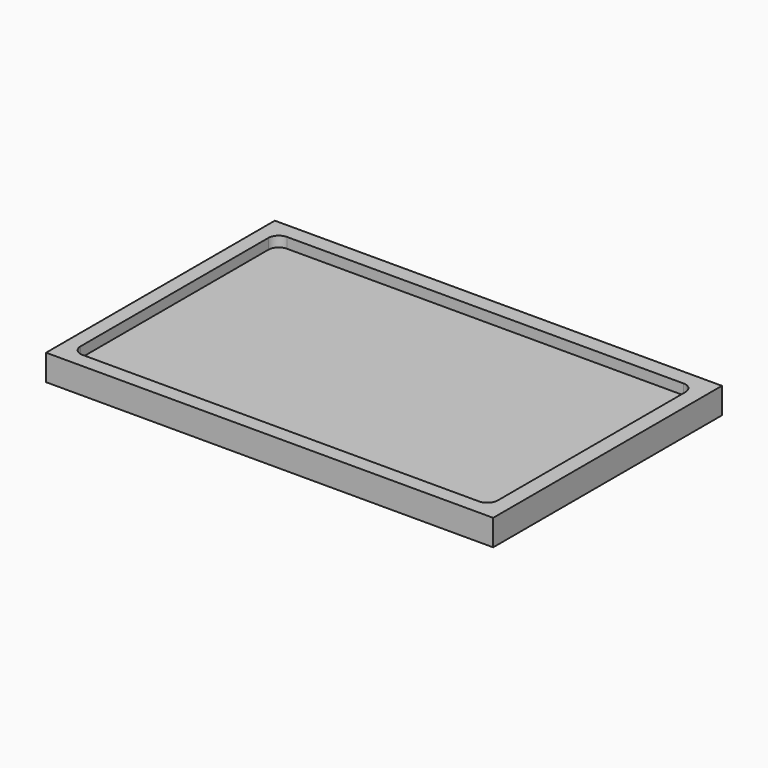
from build123d import *

# Parameters (mm, degrees)
F0_W     = 86
F0_H     = 55
F1_DEPTH = 5
F2_W     = 80.25
F2_H     = 49.15
F3_DEPTH = 2
F4_R     = 2


with BuildPart() as f1:
    # F0 (on Top) → F1 (new body)
    with BuildSketch(Plane.XY):
        Rectangle(F0_W, F0_H)
    extrude(amount=F1_DEPTH)

    # F2 (on face) → F3 (cut)
    with BuildSketch(Plane.XY.offset(5)):
        with Locations((-0.125, -0.075)):
            Rectangle(F2_W, F2_H)
    extrude(amount=-F3_DEPTH, mode=Mode.SUBTRACT)

    # F4
    f4_edges = [f1.edges().sort_by_distance(p)[0] for p in [
        (-40.25, 24.5, 4),
        (-40.25, -24.65, 4),
        (40, 24.5, 4),
        (40, -24.65, 4),
    ]]
    fillet(f4_edges, radius=F4_R)


solid = f1.part
